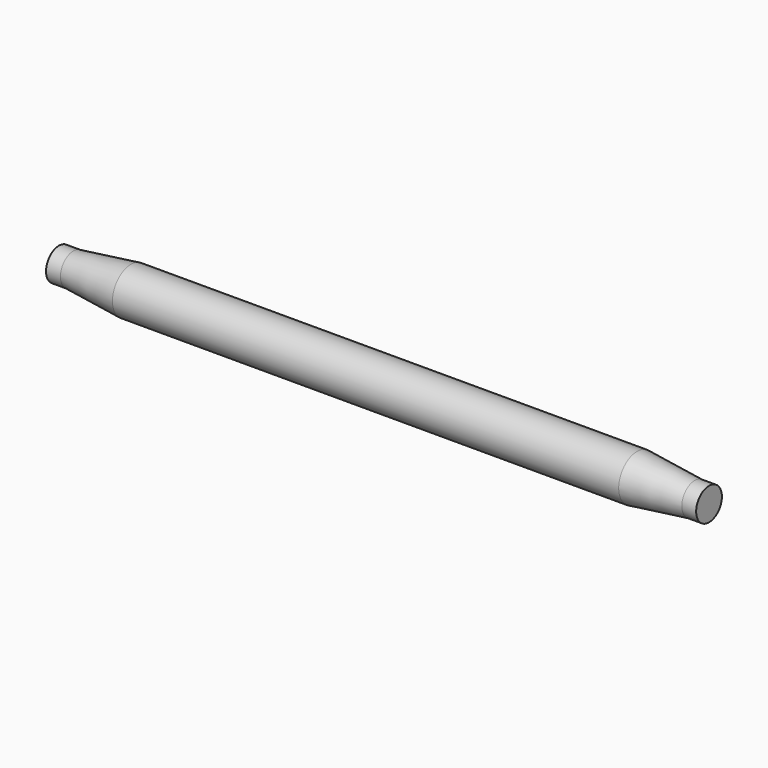
from build123d import *

# Parameters (mm, degrees)
F0_R      = 63.5
F1_DEPTH  = 698.5
F3_R      = 44.45
F4_DEPTH  = 39.624
F4_FACE_R = 44.45
F1_FACE_R = 63.5


with BuildPart() as f1:
    # F0 (on Right) → F1 (new body, symmetric)
    with BuildSketch(Plane.YZ):
        Circle(F0_R)
    extrude(amount=F1_DEPTH, both=True)



with BuildPart() as f4:
    # F3 (on offset) → F4 (new body)
    with BuildSketch(Plane.YZ.offset(897.001)):
        Circle(F3_R)
    extrude(amount=-F4_DEPTH)


with BuildPart() as f1_1:
    add(f1.part)

    add(f4.part)  # F5 merges F4
    # F4_face (on face) → F5 section 0
    with BuildSketch(Plane(origin=(857.377, 0, 0), x_dir=(0, 1, 0), z_dir=(-1, 0, 0))):
        Circle(F4_FACE_R)
    # F1_face (on face) → F5 section 1
    with BuildSketch(Plane.YZ.offset(698.5)):
        Circle(F1_FACE_R)
    loft()

    # F6: F1 across plane


with BuildPart() as f1_2:
    add(f1_1.part)
    add(f1_1.part.mirror(Plane.YZ))


solid = f1_2.part
